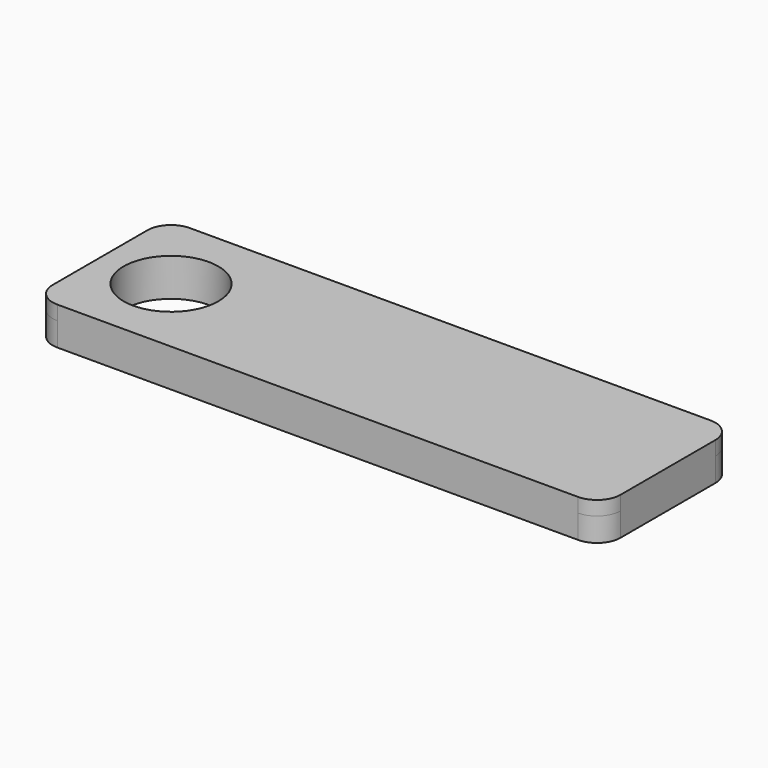
from build123d import *

# Parameters (mm, degrees)
F0_W      = 120
F0_H      = 35
F0_R      = 10
F1_DEPTH  = 5
F2_R      = 5
F1_FACE_R = 10
F3_DEPTH  = 3


with BuildPart() as f1:
    # F0 (on Top) → F1 (new body)
    with BuildSketch(Plane.XY):
        Rectangle(F0_W, F0_H)
        with Locations((-45, 0)):
            Circle(F0_R, mode=Mode.SUBTRACT)
    extrude(amount=F1_DEPTH)

    # F2
    f2_edges = [f1.edges().sort_by_distance(p)[0] for p in [
        (-60, -17.5, 2.5),
        (-60, 17.5, 2.5),
        (60, 17.5, 2.5),
        (60, -17.5, 2.5),
    ]]
    fillet(f2_edges, radius=F2_R)

    # F1_face (on face) → F3 (join)
    with BuildSketch(Plane(origin=(3.658327, 0, 5), x_dir=(1, 0, 0), z_dir=(0, 0, 1))):
        with BuildLine():
            Line((-63.658327, 12.5), (-63.658327, -12.5))
            ThreePointArc((-63.658327, -12.5), (-62.193861, -16.035534), (-58.658327, -17.5))
            Line((-58.658327, -17.5), (51.341673, -17.5))
            ThreePointArc((51.341673, -17.5), (54.877207, -16.035534), (56.341673, -12.5))
            Line((56.341673, -12.5), (56.341673, 12.5))
            ThreePointArc((56.341673, 12.5), (54.877207, 16.035534), (51.341673, 17.5))
            Line((51.341673, 17.5), (-58.658327, 17.5))
            ThreePointArc((-58.658327, 17.5), (-62.193861, 16.035534), (-63.658327, 12.5))
        make_face()
        with Locations((-48.658327, 0)):
            Circle(F1_FACE_R, mode=Mode.SUBTRACT)
    extrude(amount=F3_DEPTH)


solid = f1.part
